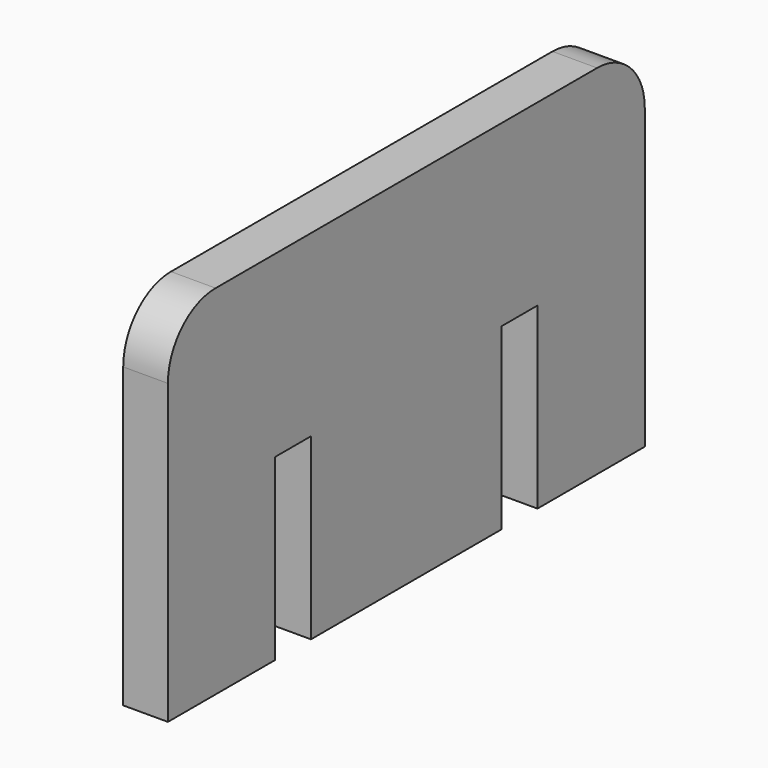
from build123d import *

# Parameters (mm, degrees)
F1_DEPTH = 4.7625


with BuildPart() as f1:
    # F0 (on Right) → F1 (new body)
    with BuildSketch(Plane.YZ):
        with BuildLine():
            Line((0, 31.75), (0, 0))
            Line((0, 0), (14.2875, 0))
            Line((14.2875, 0), (14.2875, 19.05))
            Line((14.2875, 19.05), (19.05, 19.05))
            Line((19.05, 19.05), (19.05, 0))
            Line((19.05, 0), (44.45, 0))
            Line((44.45, 0), (44.45, 19.05))
            Line((44.45, 19.05), (49.2125, 19.05))
            Line((49.2125, 19.05), (49.2125, 0))
            Line((49.2125, 0), (63.5, 0))
            Line((63.5, 0), (63.5, 31.75))
            ThreePointArc((63.5, 31.75), (61.640128, 36.240128), (57.15, 38.1))
            Line((57.15, 38.1), (6.35, 38.1))
            ThreePointArc((6.35, 38.1), (1.859872, 36.240128), (0, 31.75))
        make_face()
    extrude(amount=F1_DEPTH)


solid = f1.part
